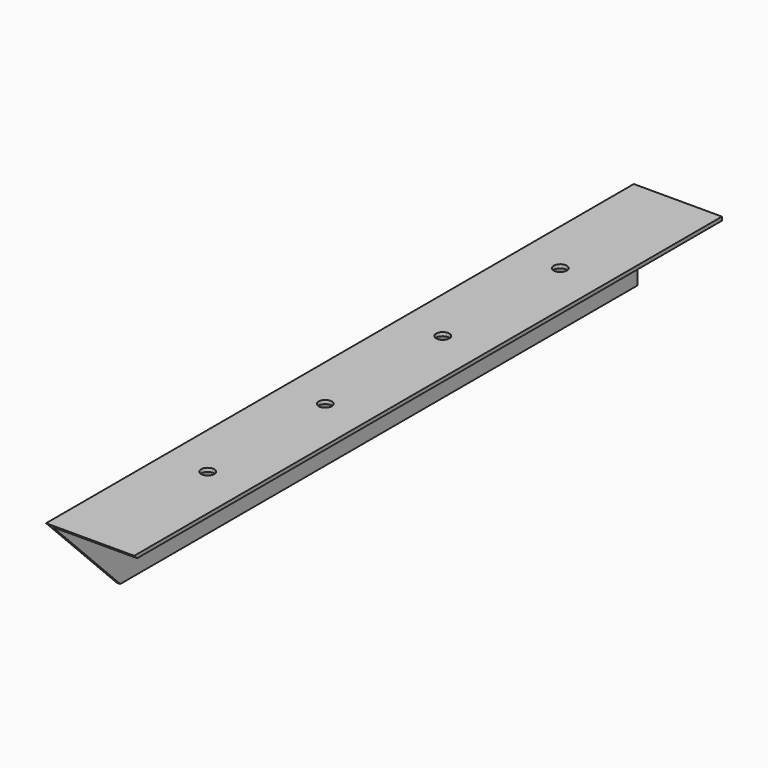
from build123d import *

# Parameters (mm, degrees)
F1_DEPTH = 500
F3_DEPTH = 60.001
F4_R     = 4.5
F5_DEPTH = 60.001


with BuildPart() as f1:
    # F0 (on Front) → F1 (new body)
    with BuildSketch(Plane.XZ):
        Polygon((60, 0), (0, 0), (0, -60), (2.5, -60), (2.5, -2.5), (60, -2.5), align=None)
    extrude(amount=F1_DEPTH)

    # F2 (on face) → F3 (cut, through all)
    with BuildSketch(Plane(origin=(0, 0, 0), x_dir=(0, -1, 0), z_dir=(-1, 0, 0))):
        Polygon((500, -60), (500, 0), (440, -60), align=None)
    extrude(amount=-F3_DEPTH, mode=Mode.SUBTRACT)

    # F4 (on face) → F5 (cut, through all)
    with BuildSketch(Plane.XY):
        with Locations((30, -100)):
            Circle(F4_R)
        with Locations((30, -200)):
            Circle(F4_R)
        with Locations((30, -300)):
            Circle(F4_R)
        with Locations((30, -400)):
            Circle(F4_R)
    extrude(amount=-F5_DEPTH, mode=Mode.SUBTRACT)


solid = f1.part
